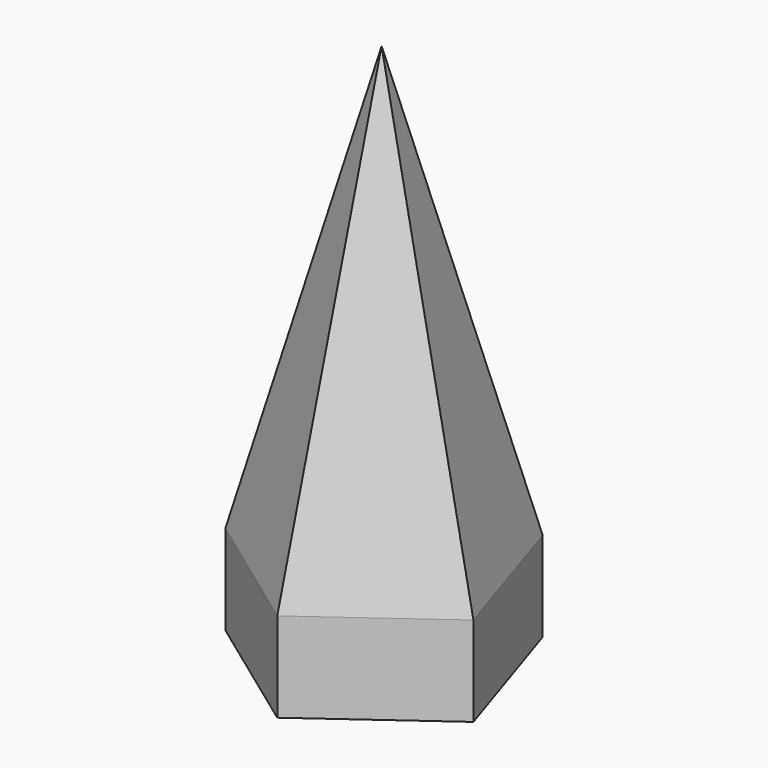
from build123d import *

# Parameters (mm, degrees)
F1_DEPTH = 25


with BuildPart() as f1:
    # F0 (on Top) → F1 (new body)
    with BuildSketch(Plane.XY):
        Polygon((21.36452, 29.405739), (-21.36452, 29.405739), (-34.56852, -11.231993), (0, -36.347493), (34.56852, -11.231993), align=None)
    extrude(amount=F1_DEPTH)

    # F1_face (on face) → F4 section 0
    with BuildSketch(Plane.XY.offset(25), mode=Mode.PRIVATE) as f4_s0:
        Polygon((34.56852, -11.231993), (21.36452, 29.405739), (-21.36452, 29.405739), (-34.56852, -11.231993), (0, -36.347493), align=None)
    loft([f4_s0.sketch, Vertex(0, 0, 150)])


solid = f1.part
